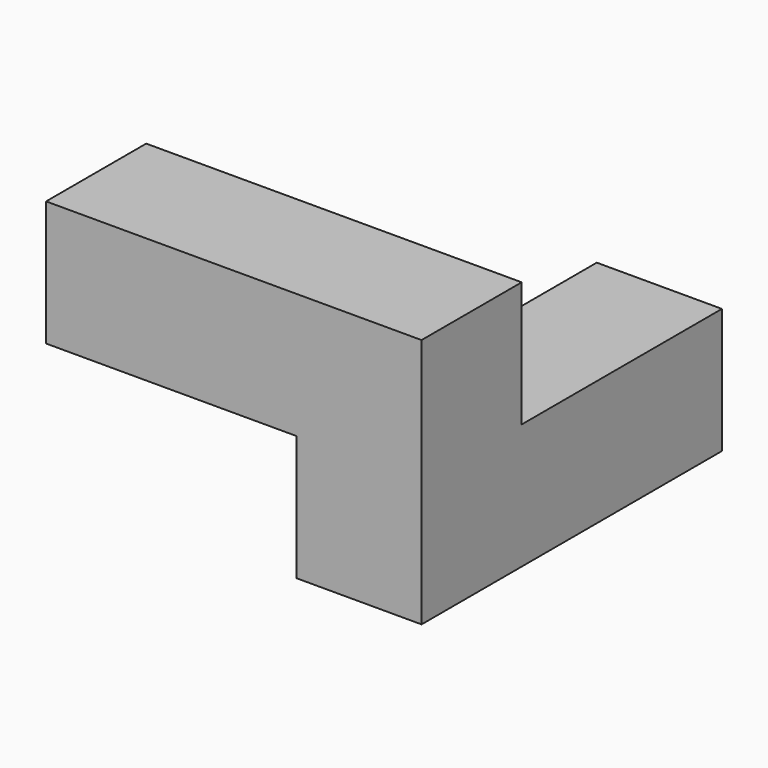
from build123d import *

# Parameters (mm, degrees)
F0_W     = 19.05
F0_H     = 19.05
F1_DEPTH = 19.05
F2_DEPTH = 19.05
F3_DEPTH = 19.05
F4_DEPTH = 57.15


with BuildPart() as f1:
    # F0 (on Front) → F1 (new body)
    with BuildSketch(Plane.XZ):
        with Locations((-70.432953, 9.525)):
            Rectangle(F0_W, F0_H)
    extrude(amount=-F1_DEPTH)

    # F0 (on Front) → F2 (join)
    with BuildSketch(Plane.XZ):
        with Locations((-51.382953, 9.525)):
            Rectangle(F0_W, F0_H)
    extrude(amount=-F2_DEPTH)

    # F0 (on Front) → F3 (join)
    with BuildSketch(Plane.XZ):
        with Locations((-32.332953, 9.525)):
            Rectangle(F0_W, F0_H)
    extrude(amount=-F3_DEPTH)

    # F0 (on Front) → F4 (join)
    with BuildSketch(Plane.XZ):
        with Locations((-32.332953, -9.525)):
            Rectangle(F0_W, F0_H)
    extrude(amount=-F4_DEPTH)


solid = f1.part
